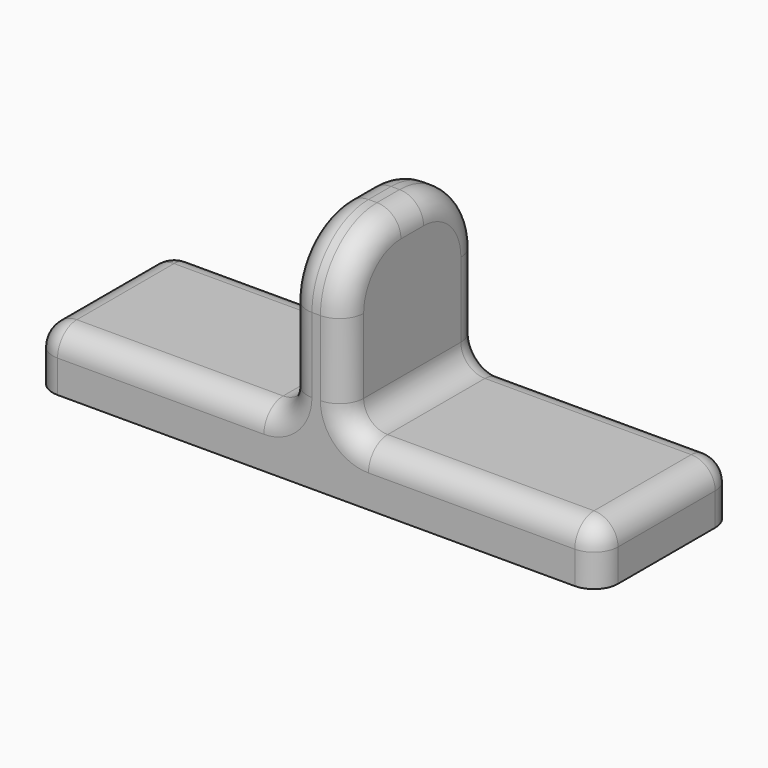
from build123d import *

# Parameters (mm, degrees)
F0_W     = 40
F0_H     = 12
F1_DEPTH = 4
F2_W     = 4
F2_H     = 12
F3_DEPTH = 12
F4_R     = 5
F5_R     = 1.7


with BuildPart() as f1:
    # F0 (on Top) → F1 (new body)
    with BuildSketch(Plane.XY):
        Rectangle(F0_W, F0_H)
    extrude(amount=F1_DEPTH)

    # F2 (on face) → F3 (join)
    with BuildSketch(Plane.XY.offset(4)):
        Rectangle(F2_W, F2_H)
    extrude(amount=F3_DEPTH)

    # F4
    f4_edges = [f1.edges().sort_by_distance(p)[0] for p in [
        (0, -6, 16),
        (0, 6, 16),
    ]]
    fillet(f4_edges, radius=F4_R)

    # F5
    f5_edges = [f1.edges().sort_by_distance(p)[0] for p in [
        (-20, -6, 2),
        (-11, -6, 4),
        (-20, 0, 4),
        (-20, 6, 2),
        (-11, 6, 4),
        (20, -6, 2),
        (20, 6, 2),
        (11, -6, 4),
        (20, 0, 4),
        (11, 6, 4),
        (-2, 6, 7.5),
        (-2, 4.535534, 14.535534),
        (-2, 0, 4),
        (-2, 0, 16),
        (-2, -6, 7.5),
        (-2, -4.535534, 14.535534),
        (2, -6, 7.5),
        (2, 6, 7.5),
        (2, 4.535534, 14.535534),
        (2, 0, 16),
        (2, 0, 4),
    ]]
    fillet(f5_edges, radius=F5_R)


solid = f1.part
